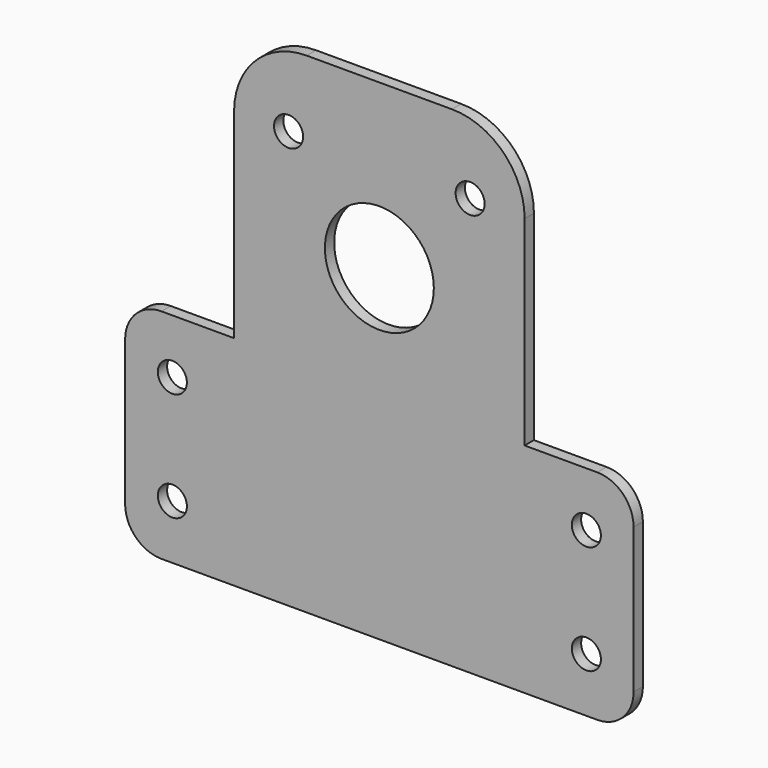
from build123d import *

# Parameters (mm, degrees)
F2_R     = 4
F2_R_2   = 15
F3_DEPTH = 3.2


with BuildPart() as f3:
    # F2 (on offset) → F3 (new body)
    with BuildSketch(Plane.XZ.offset(21)):
        with BuildLine():
            Line((-31.794595, 60.161489), (-51.794595, 60.161489))
            ThreePointArc((-51.794595, 60.161489), (-58.865663, 57.232556), (-61.794595, 50.161489))
            Line((-61.794595, 50.161489), (-61.794595, 10.161489))
            ThreePointArc((-61.794595, 10.161489), (-58.865663, 3.090421), (-51.794595, 0.161489))
            Line((-51.794595, 0.161489), (68.205405, 0.161489))
            ThreePointArc((68.205405, 0.161489), (75.276472, 3.090421), (78.205405, 10.161489))
            Line((78.205405, 10.161489), (78.205405, 50.161489))
            ThreePointArc((78.205405, 50.161489), (75.276472, 57.232556), (68.205405, 60.161489))
            Line((68.205405, 60.161489), (48.205405, 60.161489))
            Line((48.205405, 60.161489), (48.205405, 115.161489))
            ThreePointArc((48.205405, 115.161489), (42.34754, 129.303624), (28.205405, 135.161489))
            Line((28.205405, 135.161489), (-11.794595, 135.161489))
            ThreePointArc((-11.794595, 135.161489), (-25.936731, 129.303624), (-31.794595, 115.161489))
            Line((-31.794595, 115.161489), (-31.794595, 60.161489))
        make_face()
        with Locations((-48.794595, 15.161489)):
            Circle(F2_R, mode=Mode.SUBTRACT)
        with Locations((-48.794595, 45.161489)):
            Circle(F2_R, mode=Mode.SUBTRACT)
        with Locations((65.205405, 15.161489)):
            Circle(F2_R, mode=Mode.SUBTRACT)
        with Locations((65.205405, 45.161489)):
            Circle(F2_R, mode=Mode.SUBTRACT)
        with Locations((-16.794595, 115.161489)):
            Circle(F2_R, mode=Mode.SUBTRACT)
        with Locations((8.205405, 90.161489)):
            Circle(F2_R_2, mode=Mode.SUBTRACT)
        with Locations((33.205405, 115.161489)):
            Circle(F2_R, mode=Mode.SUBTRACT)
    extrude(amount=F3_DEPTH)


solid = f3.part
